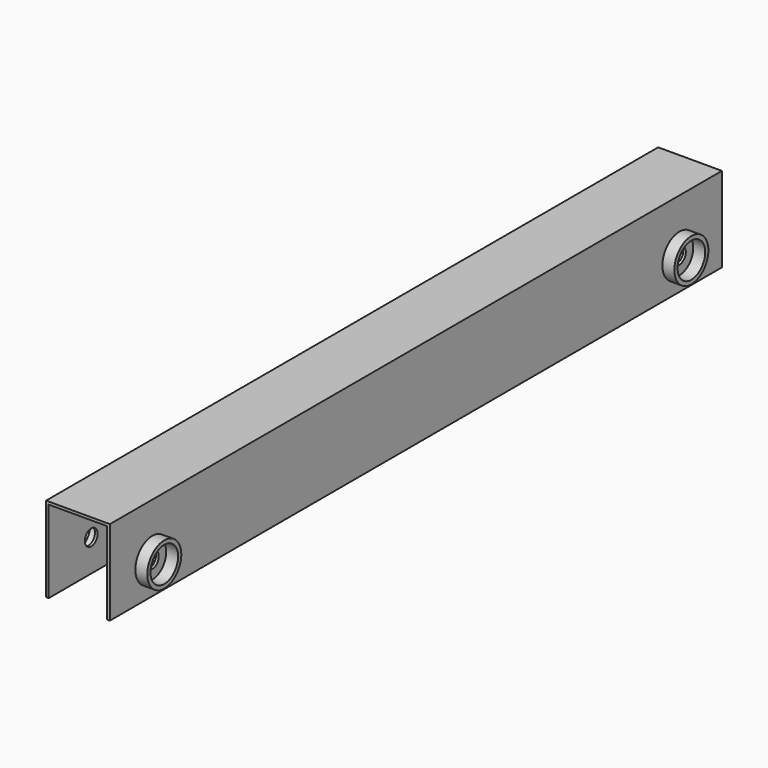
from build123d import *

# Parameters (mm, degrees)
F0_W     = 76.2
F0_H     = 101.6
F0_W_2   = 69.85
F0_H_2   = 95.25
F1_DEPTH = 914.4
F2_R     = 9.525
F3_DEPTH = 76.2
F4_W     = 69.85
F4_H     = 114.3
F5_DEPTH = 3.175
F6_R     = 25.4
F6_R_2   = 20.6375
F7_DEPTH = 14.2875
F8_R     = 25.4
F8_R_2   = 20.6375
F9_DEPTH = 14.2875


with BuildPart() as f1:
    # F0 (on Front) → F1 (new body)
    with BuildSketch(Plane.XZ):
        with Locations((38.1, 50.8)):
            Rectangle(F0_W, F0_H)
        with Locations((38.1, 50.8)):
            Rectangle(F0_W_2, F0_H_2, mode=Mode.SUBTRACT)
    extrude(amount=F1_DEPTH)

    # F2 (on Right) → F3 (cut)
    with BuildSketch(Plane.YZ):
        with Locations((-850.9, 38.1)):
            Circle(F2_R)
        with Locations((-63.5, 38.1)):
            Circle(F2_R)
    extrude(amount=F3_DEPTH, mode=Mode.SUBTRACT)

    # F4 (on Top) → F5 (cut)
    with BuildSketch(Plane.XY):
        with Locations((38.1, -857.25)):
            Rectangle(F4_W, F4_H)
        with Locations((38.1, -57.15)):
            Rectangle(F4_W, F4_H)
    extrude(amount=F5_DEPTH, mode=Mode.SUBTRACT)

    # F6 (on face) → F7 (join)
    with BuildSketch(Plane.YZ.offset(76.2)):
        with Locations((-850.9, 38.1)):
            Circle(F6_R)
        with Locations((-850.9, 38.1)):
            Circle(F6_R_2, mode=Mode.SUBTRACT)
        with Locations((-63.5, 38.1)):
            Circle(F6_R)
        with Locations((-63.5, 38.1)):
            Circle(F6_R_2, mode=Mode.SUBTRACT)
    extrude(amount=F7_DEPTH)

    # F8 (on face) → F9 (join)
    with BuildSketch(Plane(origin=(0, 0, 0), x_dir=(0, -1, 0), z_dir=(-1, 0, 0))):
        with Locations((63.5, 38.1)):
            Circle(F8_R)
        with Locations((63.5, 38.1)):
            Circle(F8_R_2, mode=Mode.SUBTRACT)
        with Locations((850.9, 38.1)):
            Circle(F8_R)
        with Locations((850.9, 38.1)):
            Circle(F8_R_2, mode=Mode.SUBTRACT)
    extrude(amount=F9_DEPTH)


solid = f1.part
